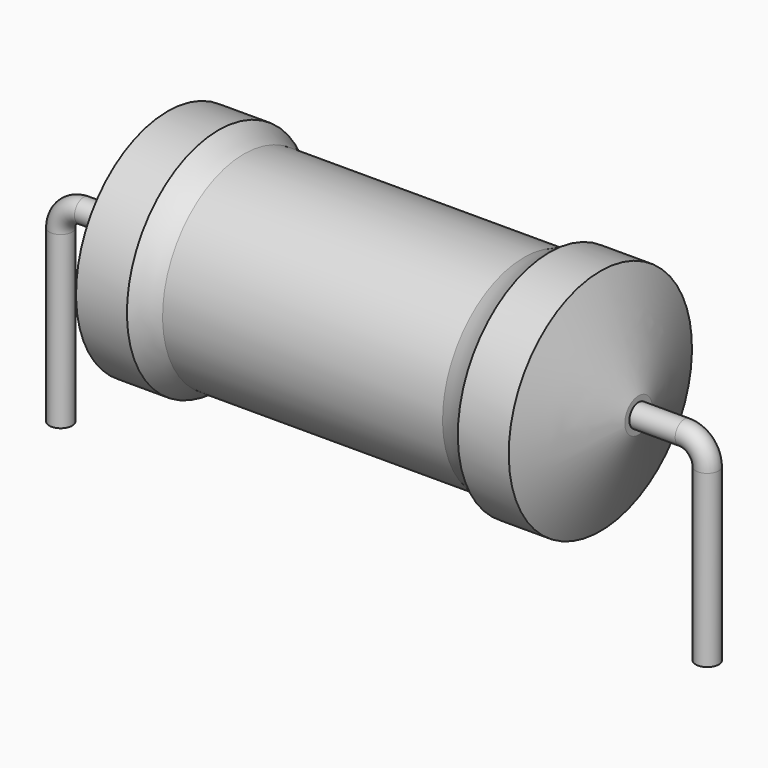
from build123d import *

# Parameters (mm, degrees)
SKETCH_R = 0.45


with BuildPart() as revolution:
    # Sketch002 → Revolution (revolve)
    with BuildSketch(Plane.XZ):
        with BuildLine():
            Line((4.2, 9.1), (6.2, 9.1))
            ThreePointArc((6.2, 9.1), (6.679309, 8.808619), (7.2, 8.6))
            Line((7.2, 8.6), (18.2, 8.6))
            ThreePointArc((18.2, 8.6), (18.720691, 8.808619), (19.2, 9.1))
            Line((19.2, 9.1), (21.2, 9.1))
            ThreePointArc((22.7, 5.275), (21.96476, 7.193288), (21.2, 9.1))
            Line((22.7, 4.6), (22.7, 5.275))
            Line((2.7, 4.6), (22.7, 4.6))
            Line((2.7, 4.6), (2.7, 5.275))
            ThreePointArc((4.2, 9.1), (3.43524, 7.193288), (2.7, 5.275))
        make_face()
    revolve(axis=Axis((2.7, 0, 4.6), (1, 0, 0)))


with BuildPart() as sweep_body:
    # Sweep: sweep along a path in Sketch001
    with BuildLine(Plane.XZ) as sweep_path:
        Line((0, -3), (0, 3.7))
        ThreePointArc((0, 3.7), (0.2636, 4.336392), (0.89999, 4.6))
        Line((0.89999, 4.6), (24.5, 4.6))
        ThreePointArc((24.5, 4.6), (25.136396, 4.336396), (25.4, 3.7))
        Line((25.4, 3.7), (25.4, -3))
    # Sketch → Sweep (sweep)
    with BuildSketch(Plane.XY.offset(-2)):
        Circle(SKETCH_R)
    sweep(path=sweep_path.line)


solid = Compound([revolution.part, sweep_body.part])
